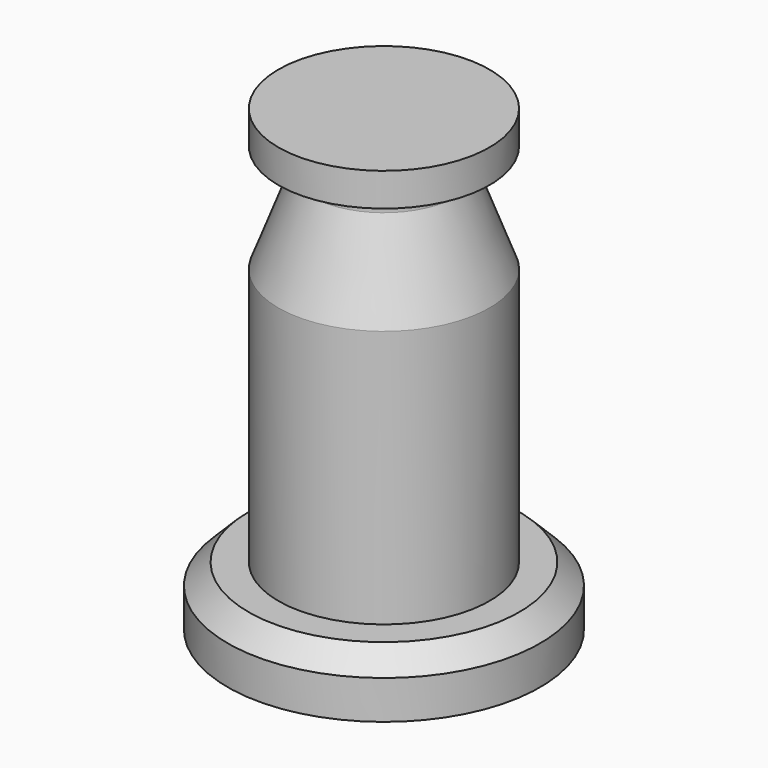
from build123d import *


with BuildPart() as f1:
    # F0 (on Front) → F1 (revolve)
    with BuildSketch(Plane.XZ):
        with BuildLine():
            Line((-37.6, 9.3), (-37.6, 0))
            Line((-37.6, 0), (-25.15, 0))
            ThreePointArc((-25.15, 0), (-24.65, 0.5), (-24.15, 0))
            Line((-24.15, 0), (-14.986, 0))
            Line((-14.986, 0), (-14.986, 39))
            Line((-14.986, 39), (-12.25, 39))
            Line((-12.25, 39), (-12.25, 44))
            Line((-12.25, 44), (0, 44))
            Line((0, 44), (0, 110.4))
            Line((0, 110.4), (-25.4, 110.4))
            Line((-25.4, 110.4), (-25.4, 102.4))
            Line((-25.4, 102.4), (-17.5, 102.4))
            Line((-17.5, 102.4), (-17.5, 97.4))
            Line((-17.5, 97.4), (-25.4, 76.4))
            Line((-25.4, 76.4), (-25.4, 14.3))
            Line((-25.4, 14.3), (-32.6, 14.3))
            Line((-32.6, 14.3), (-37.6, 9.3))
        make_face()
    revolve(axis=Axis((0, 0, 62.623069), (0, 0, 1)))


solid = f1.part
